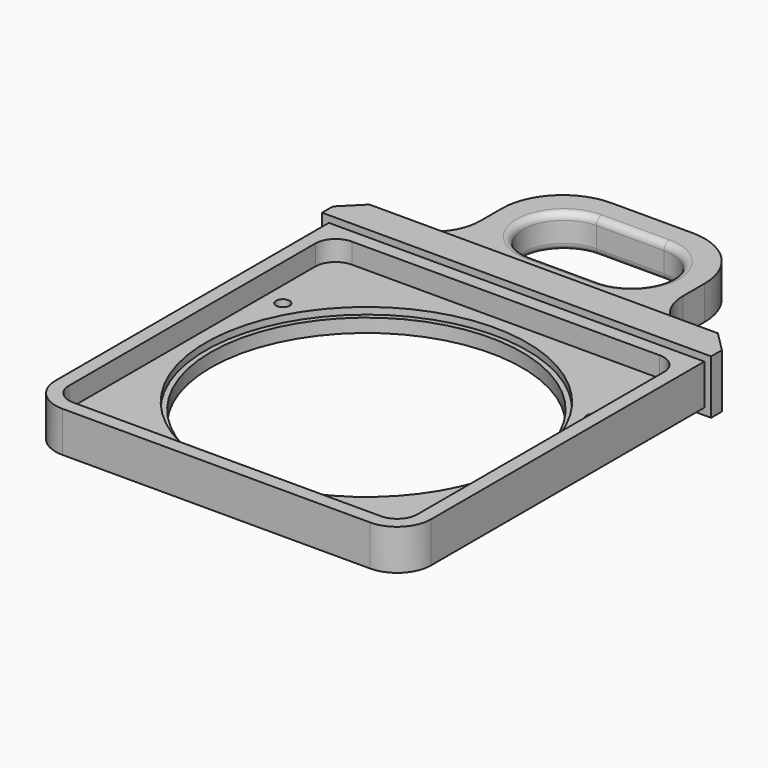
from build123d import *

# Parameters (mm, degrees)
SKETCH_W        = 55.5
SKETCH_H        = 55.5
SKETCH_R        = 23.75
PAD_DEPTH       = 6
SKETCH001_W     = 57.5
SKETCH001_H     = 8
PAD001_DEPTH    = 5
SKETCH002_W     = 30
SKETCH002_H     = 5
PAD002_DEPTH    = 20
FILLET_R        = 5
POCKET_DEPTH    = 6
FILLET001_R     = 9
FILLET002_R     = 7
CHAMFER_SIZE    = 3
SKETCH004_R     = 23.75
SKETCH004_R_2   = 23
PAD003_DEPTH    = 2
SKETCH005_W     = 51.5
SKETCH005_H     = 51.5
POCKET001_DEPTH = 3
SKETCH006_R     = 1
POCKET002_DEPTH = 6
FILLET003_R     = 1
FILLET004_R     = 1
FILLET005_R     = 3


with BuildPart() as part:
    # Sketch → Pad (new body)
    with BuildSketch(Plane.XY):
        Rectangle(SKETCH_W, SKETCH_H)
        Circle(SKETCH_R, mode=Mode.SUBTRACT)
    extrude(amount=PAD_DEPTH)

    # Sketch001 → Pad001 (new body)
    with BuildSketch(Plane(origin=(0, 27.75, 0), x_dir=(-1, 0, 0), z_dir=(0, 1, 0))):
        with Locations((0, 3)):
            Rectangle(SKETCH001_W, SKETCH001_H)
    extrude(amount=PAD001_DEPTH)

    # Sketch002 → Pad002 (new body)
    with BuildSketch(Plane(origin=(0, 32.75, 0), x_dir=(-1, 0, 0), z_dir=(0, 1, 0))):
        with Locations((0, 3)):
            Rectangle(SKETCH002_W, SKETCH002_H)
    extrude(amount=PAD002_DEPTH)

    # Fillet
    fillet_edges = [part.edges().sort_by_distance(p)[0] for p in [
        (-27.75, -27.75, 3),
        (27.75, -27.75, 3),
    ]]
    fillet(fillet_edges, radius=FILLET_R)

    # Sketch003 → Pocket (cut)
    with BuildSketch(Plane(origin=(0, 0, 0.5), x_dir=(1, 0, 0), z_dir=(0, 0, -1))):
        with BuildLine():
            ThreePointArc((-5, -36.75), (-11, -42.75), (-5, -48.75))
            Line((-5, -48.75), (5, -48.75))
            ThreePointArc((5, -48.75), (11, -42.75), (5, -36.75))
            Line((-5, -36.75), (5, -36.75))
        make_face()
    extrude(amount=-POCKET_DEPTH, mode=Mode.SUBTRACT)

    # Fillet001
    fillet001_edges = [part.edges().sort_by_distance(p)[0] for p in [
        (15, 52.75, 3),
        (-15, 52.75, 3),
    ]]
    fillet(fillet001_edges, radius=FILLET001_R)

    # Fillet002
    fillet002_edges = [part.edges().sort_by_distance(p)[0] for p in [
        (15, 32.75, 3),
        (-15, 32.75, 3),
    ]]
    fillet(fillet002_edges, radius=FILLET002_R)

    # Chamfer
    chamfer_edges = [part.edges().sort_by_distance(p)[0] for p in [
        (-28.75, 32.75, 3),
        (28.75, 32.75, 3),
    ]]
    chamfer(chamfer_edges, length=CHAMFER_SIZE)

    # Sketch004 → Pad003 (new body)
    with BuildSketch(Plane(origin=(0, 0, 0), x_dir=(1, 0, 0), z_dir=(0, 0, -1))):
        Circle(SKETCH004_R)
        Circle(SKETCH004_R_2, mode=Mode.SUBTRACT)
    extrude(amount=-PAD003_DEPTH)

    # Sketch005 → Pocket001 (cut)
    with BuildSketch(Plane.XY.offset(6)):
        Rectangle(SKETCH005_W, SKETCH005_H)
    extrude(amount=-POCKET001_DEPTH, mode=Mode.SUBTRACT)

    # Sketch006 → Pocket002 (cut)
    with BuildSketch(Plane.XY.offset(3)):
        with Locations((-22.949673, 13.25)):
            Circle(SKETCH006_R)
        with Locations((22.949673, 13.25)):
            Circle(SKETCH006_R)
        with Locations((-13.25, -22.949673)):
            Circle(SKETCH006_R)
    extrude(amount=-POCKET002_DEPTH, mode=Mode.SUBTRACT)

    # Fillet003
    fillet003_edges = [part.edges().sort_by_distance(p)[0] for p in [
        (0, 48.75, 5.5),
    ]]
    fillet(fillet003_edges, radius=FILLET003_R)

    # Fillet004
    fillet004_edges = [part.edges().sort_by_distance(p)[0] for p in [
        (0, 36.75, 0.5),
    ]]
    fillet(fillet004_edges, radius=FILLET004_R)

    # Fillet005
    fillet005_edges = [part.edges().sort_by_distance(p)[0] for p in [
        (-25.75, -25.75, 4.5),
        (25.75, -25.75, 4.5),
        (25.75, 25.75, 4.5),
        (-25.75, 25.75, 4.5),
    ]]
    fillet(fillet005_edges, radius=FILLET005_R)


solid = part.part
